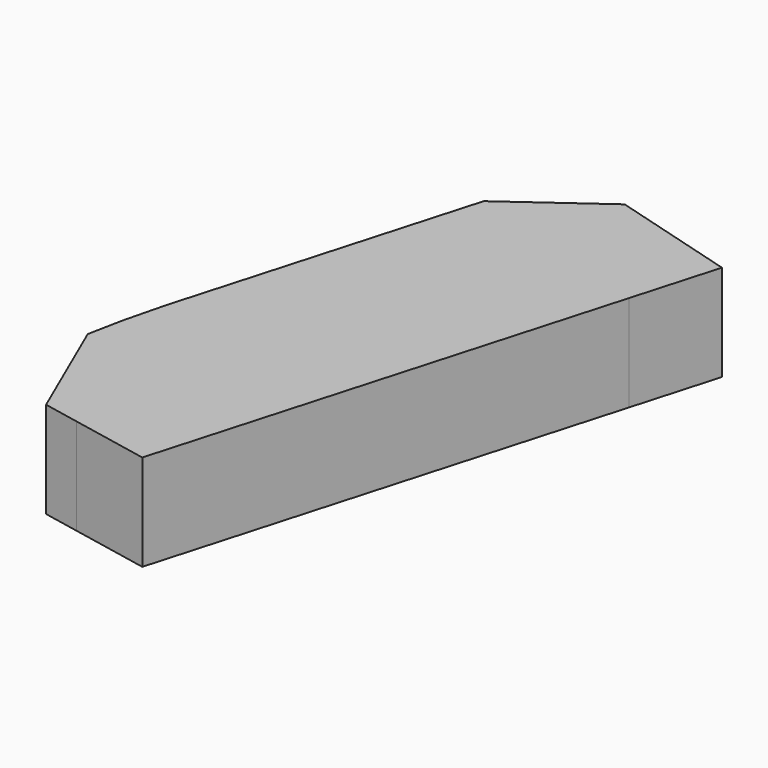
from build123d import *

# Parameters (mm, degrees)
F1_DEPTH = 25.4
F2_W     = 3.5091163591
F2_H     = 4.6407710761
F3_DEPTH = 0.0254


with BuildPart() as f1:
    # F0 (on Top) → F1 (new body)
    with BuildSketch(Plane.XY):
        Polygon((-15.5386179686, 51.1961877346), (-48.8319955766, 60.7384853065), (-49.6143862535, 57.6021264383), (-76.441437006, -49.9391071498), (-86.0654970387, -83.5177565662), (-76.441437006, -85.4337778982), (-55.8721683804, -89.5288435292), (-38.5488659292, -29.0872941455), (-22.0129852453, 28.6069158224), align=None)
        Polygon((-49.6143862535, 57.6021264383), (-48.8319955766, 60.7384853065), (-72.3904520273, 43.7064096332), (-94.5257858226, -33.524469091), (-97.1982382925, -44.2374929704), (-93.384412075, -57.6940258869), (-86.0654970387, -83.5177565662), (-76.441437006, -49.9391071498), align=None)
        Polygon((-99.0511800836, -53.5447082589), (-86.0654970387, -83.5177565662), (-93.384412075, -57.6940258869), (-97.1982382925, -44.2374929704), align=None)
    extrude(amount=F1_DEPTH)

    # F2 (on face) → F3 (join)
    with BuildSketch(Plane(origin=(-78.4711106248, 22.4907997378, 0), x_dir=(-0.2755193001, -0.96129554, 0), z_dir=(-0.96129554, 0.2755193001, 0))):
        with Locations((-12.2740664519, 15.7686183229)):
            Rectangle(F2_W, F2_H)
    extrude(amount=F3_DEPTH)


solid = f1.part
